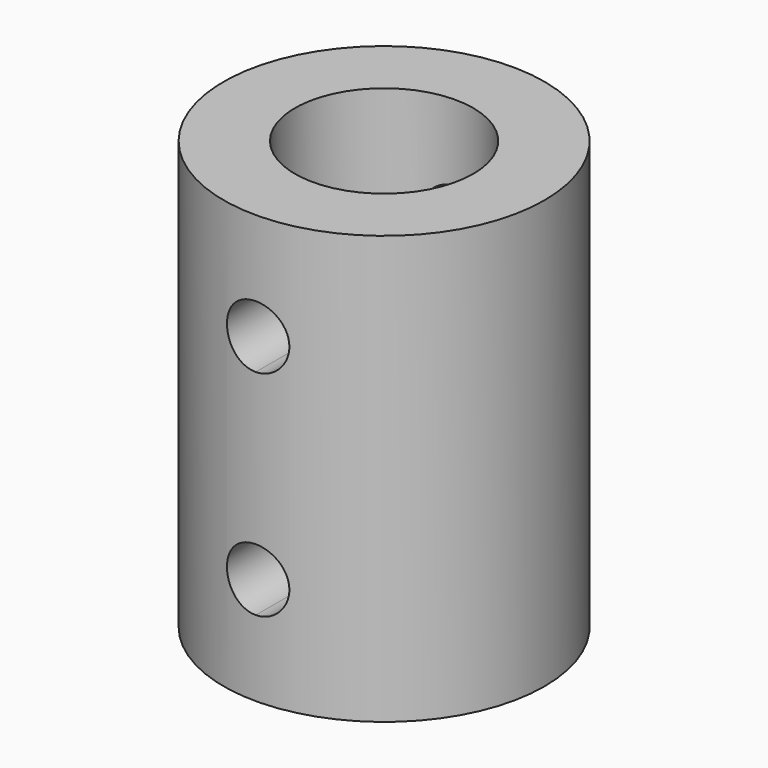
from build123d import *

# Parameters (mm, degrees)
F0_R          = 9
F1_DEPTH      = 24
F2_R          = 5
F3_DEPTH      = 10
F4_R          = 2.5
F5_DEPTH      = 10
F7_DEPTH      = 25
F7_DEPTH_BACK = 25


with BuildPart() as f1:
    # F0 (on Top) → F1 (new body)
    with BuildSketch(Plane.XY):
        Circle(F0_R)
    extrude(amount=F1_DEPTH)

    # F2 (on face) → F3 (cut)
    with BuildSketch(Plane.XY.offset(24)):
        Circle(F2_R)
    extrude(amount=-F3_DEPTH, mode=Mode.SUBTRACT)

    # F4 (on Top) → F5 (cut)
    with BuildSketch(Plane.XY):
        Circle(F4_R)
    extrude(amount=F5_DEPTH, mode=Mode.SUBTRACT)

    # F6 (on Front) → F7 (cut, two sides)
    with BuildSketch(Plane.XZ) as f7_sk:
        with BuildLine():
            ThreePointArc((0, 7.75), (-1.75, 6), (0, 4.25))
            Line((0, 4.25), (0, 6))
            Line((0, 6), (0, 7.75))
        make_face()
        with BuildLine():
            ThreePointArc((1.75, 18), (-1.2374368671, 19.2374368671), (0, 16.25))
            ThreePointArc((0, 16.25), (1.2374368671, 16.7625631329), (1.75, 18))
        make_face()
        with BuildLine():
            Line((0, 6), (0, 4.25))
            ThreePointArc((0, 4.25), (1.2374368671, 4.7625631329), (1.75, 6))
            ThreePointArc((1.75, 6), (1.2374368671, 7.2374368671), (0, 7.75))
            Line((0, 7.75), (0, 6))
        make_face()
    extrude(amount=-F7_DEPTH, mode=Mode.SUBTRACT)
    extrude(f7_sk.sketch, amount=F7_DEPTH_BACK, mode=Mode.SUBTRACT)


solid = f1.part
